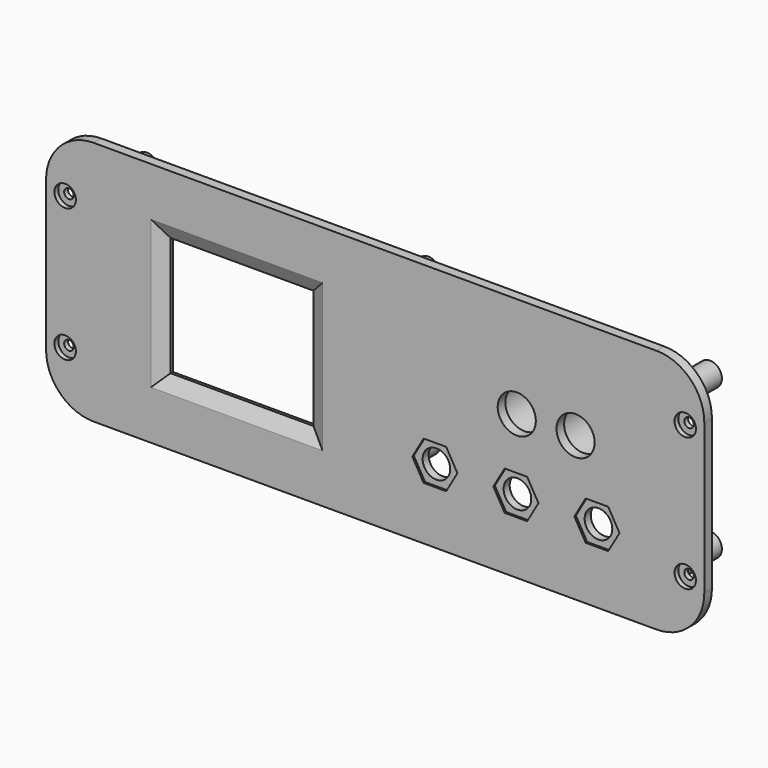
from build123d import *

# Parameters (mm, degrees)
SKETCH003_W      = 38.1
SKETCH003_H      = 31.75
PAD002_DEPTH     = 2.54
SKETCH004_R      = 3.175
PAD003_DEPTH     = 15.24
SKETCH005_R      = 5.08
POCKET001_DEPTH  = 17.781
SKETCH006_R      = 6.604
PAD004_DEPTH     = 9.525
SKETCH007_W      = 6.35
SKETCH007_H      = 35.56
SKETCH007_R      = 1.2065
PAD005_DEPTH     = 2.54
SKETCH008_W      = 3.175
SKETCH008_H      = 15.24
PAD006_DEPTH     = 3.81
POCKET002_DEPTH  = 15.24
SKETCH010_W      = 15.24
SKETCH010_H      = 2.54
PAD007_DEPTH     = 2.54
CHAMFER_ANGLE    = 25
CHAMFER_SIZE     = 3.81
SKETCH011_R      = 3.683
POCKET003_DEPTH  = 2.541
POCKET004_DEPTH  = 0.508
HOLE_D           = 2.54
HOLE_CBORE_D     = 5.715
HOLE_CBORE_DEPTH = 1.27
SKETCH014_R      = 1.016
POCKET005_DEPTH  = 12.7
CHAMFER001_SIZE  = 1.524


with BuildPart() as part:
    # Sketch003 → Pad002 (new body)
    with BuildSketch(Plane.XZ):
        with BuildLine():
            ThreePointArc((-50.8, -20), (-47.080256, -28.980256), (-38.1, -32.7))
            Line((111.9, -32.7), (-38.1, -32.7))
            ThreePointArc((111.9, -32.7), (120.880256, -28.980256), (124.6, -20))
            Line((124.6, 20), (124.6, -20))
            ThreePointArc((124.6, 20), (120.880256, 28.980256), (111.9, 32.7))
            Line((-38.1, 32.7), (111.9, 32.7))
            ThreePointArc((-38.1, 32.7), (-47.080256, 28.980256), (-50.8, 20))
            Line((-50.8, -20), (-50.8, 20))
        make_face()
        Rectangle(SKETCH003_W, SKETCH003_H, mode=Mode.SUBTRACT)
    extrude(amount=PAD002_DEPTH)

    # Sketch004 (on Face13 of Pad002) → Pad003 (join)
    with BuildSketch(Plane(origin=(0, 0, 0), x_dir=(1, 0, 0), z_dir=(0, 1, 0))):
        with Locations((111.9, -20)):
            Circle(SKETCH004_R)
        with Locations((111.9, 20)):
            Circle(SKETCH004_R)
        with Locations((-38.1, -20)):
            Circle(SKETCH004_R)
        with Locations((-38.1, 20)):
            Circle(SKETCH004_R)
        with Locations((36.9, 20)):
            Circle(SKETCH004_R)
        with Locations((36.9, -20)):
            Circle(SKETCH004_R)
    extrude(amount=PAD003_DEPTH)

    # Sketch005 (on Face5 of Pad003) → Pocket001 (cut, through all)
    with BuildSketch(Plane.XZ.offset(2.54)):
        with Locations((90.293198, 5.763262)):
            Circle(SKETCH005_R)
        with Locations((74.627113, 5.763262)):
            Circle(SKETCH005_R)
    extrude(amount=-POCKET001_DEPTH, mode=Mode.SUBTRACT)

    # Sketch006 (on Face4 of Pocket001) → Pad004 (join)
    with BuildSketch(Plane(origin=(0, 0, 0), x_dir=(1, 0, 0), z_dir=(0, 1, 0))):
        with BuildLine():
            ThreePointArc((74.627113, 3.126738), (65.737113, -5.763262), (74.627113, -14.653262))
            Line((90.293198, -14.653262), (74.627113, -14.653262))
            ThreePointArc((90.293198, -14.653262), (99.183198, -5.763262), (90.293198, 3.126738))
            Line((74.627113, 3.126738), (90.293198, 3.126738))
        make_face()
        with Locations((90.293198, -5.763262)):
            Circle(SKETCH006_R, mode=Mode.SUBTRACT)
        with Locations((74.627113, -5.763262)):
            Circle(SKETCH006_R, mode=Mode.SUBTRACT)
    extrude(amount=PAD004_DEPTH)

    # Sketch007 (on Face4 of Pad004) → Pad005 (join)
    with BuildSketch(Plane(origin=(0, 0, 0), x_dir=(1, 0, 0), z_dir=(0, 1, 0))):
        with Locations((23.622, 0)):
            Rectangle(SKETCH007_W, SKETCH007_H)
        with Locations((22.479, 14.605)):
            Circle(SKETCH007_R, mode=Mode.SUBTRACT)
        with Locations((22.479, -14.605)):
            Circle(SKETCH007_R, mode=Mode.SUBTRACT)
        with Locations((-29.718, 0)):
            Rectangle(SKETCH007_W, SKETCH007_H)
        with Locations((-28.321, -14.605)):
            Circle(SKETCH007_R, mode=Mode.SUBTRACT)
        with Locations((-28.321, 14.605)):
            Circle(SKETCH007_R, mode=Mode.SUBTRACT)
    extrude(amount=PAD005_DEPTH)

    # Sketch008 (on Face37 of Pad005) → Pad006 (join)
    with BuildSketch(Plane(origin=(0, 2.54, 0), x_dir=(1, 0, 0), z_dir=(0, 1, 0))):
        with Locations((25.2095, 0)):
            Rectangle(SKETCH008_W, SKETCH008_H)
        with Locations((-31.3055, 0)):
            Rectangle(SKETCH008_W, SKETCH008_H)
    extrude(amount=PAD006_DEPTH)

    # Sketch009 (on Face54 of Pad006) → Pocket002 (cut)
    with BuildSketch(Plane(origin=(0, 0, -7.62), x_dir=(1, 0, 0), z_dir=(0, 0, -1))):
        Polygon((23.622, -2.54), (25.146, -2.54), (25.146, -4.318), (24.003, -4.318), (25.146, -6.35), (23.622, -6.35), align=None)
        Polygon((-29.718, -2.54), (-31.242, -2.54), (-31.242, -4.318), (-30.099, -4.318), (-31.242, -6.35), (-29.718, -6.35), align=None)
    extrude(amount=-POCKET002_DEPTH, mode=Mode.SUBTRACT)

    # Sketch010 (on Face4 of Pocket002) → Pad007 (join)
    with BuildSketch(Plane(origin=(0, 0, 0), x_dir=(1, 0, 0), z_dir=(0, 1, 0))):
        with Locations((0, -19.05)):
            Rectangle(SKETCH010_W, SKETCH010_H)
    extrude(amount=PAD007_DEPTH)

    # Chamfer
    chamfer_edges = [part.edges().sort_by_distance(p)[0] for p in [
        (0, -2.54, -15.875),
        (19.05, -2.54, 0),
        (0, -2.54, 15.875),
        (-19.05, -2.54, 0),
    ]]
    chamfer_side = part.faces().sort_by_distance((40.639586, -2.54, -0.093816))[0]
    chamfer(chamfer_edges, length=CHAMFER_SIZE, angle=CHAMFER_ANGLE, reference=chamfer_side)

    # Sketch011 (on Face20 of Chamfer) → Pocket003 (cut, through all)
    with BuildSketch(Plane(origin=(0, 0, 0), x_dir=(1, 0, 0), z_dir=(0, 1, 0))):
        with Locations((95.99, 13.286738)):
            Circle(SKETCH011_R)
        with Locations((74.4, 13.286738)):
            Circle(SKETCH011_R)
        with Locations((52.81, 13.286738)):
            Circle(SKETCH011_R)
    extrude(amount=-POCKET003_DEPTH, mode=Mode.SUBTRACT)

    # Sketch012 (on Face1 of Pocket003) → Pocket004 (cut)
    with BuildSketch(Plane.XZ.offset(2.54)):
        Polygon((49.803737, -8.079738), (55.816263, -8.079738), (58.822526, -13.286738), (55.816263, -18.493738), (49.803737, -18.493738), (46.797474, -13.286738), align=None)
        Polygon((71.393737, -8.079738), (77.406263, -8.079738), (80.412526, -13.286738), (77.406263, -18.493738), (71.393737, -18.493738), (68.387474, -13.286738), align=None)
        Polygon((92.983737, -8.079738), (98.996263, -8.079738), (102.002526, -13.286738), (98.996263, -18.493738), (92.983737, -18.493738), (89.977474, -13.286738), align=None)
    extrude(amount=-POCKET004_DEPTH, mode=Mode.SUBTRACT)

    # Hole (through all)
    with Locations(Plane.XZ.offset(2.54)):
        with Locations((119.52, 17.78), (119.52, -17.78), (-45.72, -17.78), (-45.72, 17.78)):
            CounterBoreHole(HOLE_D / 2, HOLE_CBORE_D / 2, HOLE_CBORE_DEPTH)

    # Sketch014 (on Face90 of Hole) → Pocket005 (cut)
    with BuildSketch(Plane(origin=(0, 15.24, 0), x_dir=(1, 0, 0), z_dir=(0, 1, 0))):
        with Locations((-38.1, 20)):
            Circle(SKETCH014_R)
        with Locations((-38.1, -20)):
            Circle(SKETCH014_R)
        with Locations((36.9, -20)):
            Circle(SKETCH014_R)
        with Locations((36.9, 20)):
            Circle(SKETCH014_R)
        with Locations((111.9, 20)):
            Circle(SKETCH014_R)
        with Locations((111.9, -20)):
            Circle(SKETCH014_R)
    extrude(amount=-POCKET005_DEPTH, mode=Mode.SUBTRACT)

    # Chamfer001
    chamfer001_edges = [part.edges().sort_by_distance(p)[0] for p in [
        (-41.275, 0, -20),
        (-41.275, 0, 20),
        (33.725, 0, 20),
        (33.725, 0, -20),
        (108.725, 0, 20),
        (108.725, 0, -20),
    ]]
    chamfer(chamfer001_edges, length=CHAMFER001_SIZE)


solid = part.part
